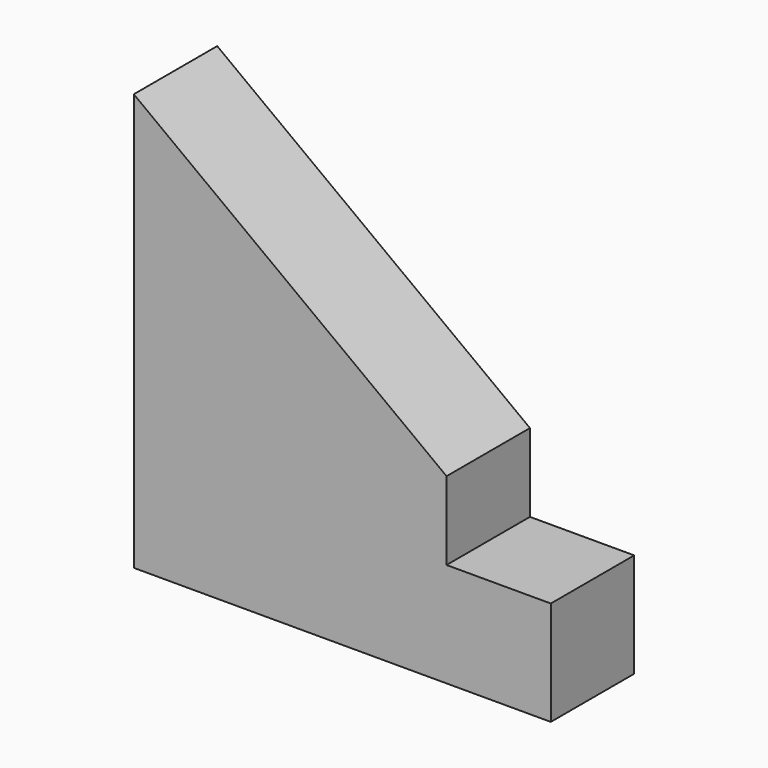
from build123d import *

# Parameters (mm, degrees)
F1_DEPTH = 5


with BuildPart() as f1:
    # F0 (on Front) → F1 (new body, symmetric)
    with BuildSketch(Plane.XZ):
        Polygon((10, -2.5), (-20, 20), (-20, -10), (10, -10), align=None)
        Polygon((20, -20), (20, -10), (10, -10), (-20, -10), (-20, -20), align=None)
    extrude(amount=F1_DEPTH, both=True)


solid = f1.part
